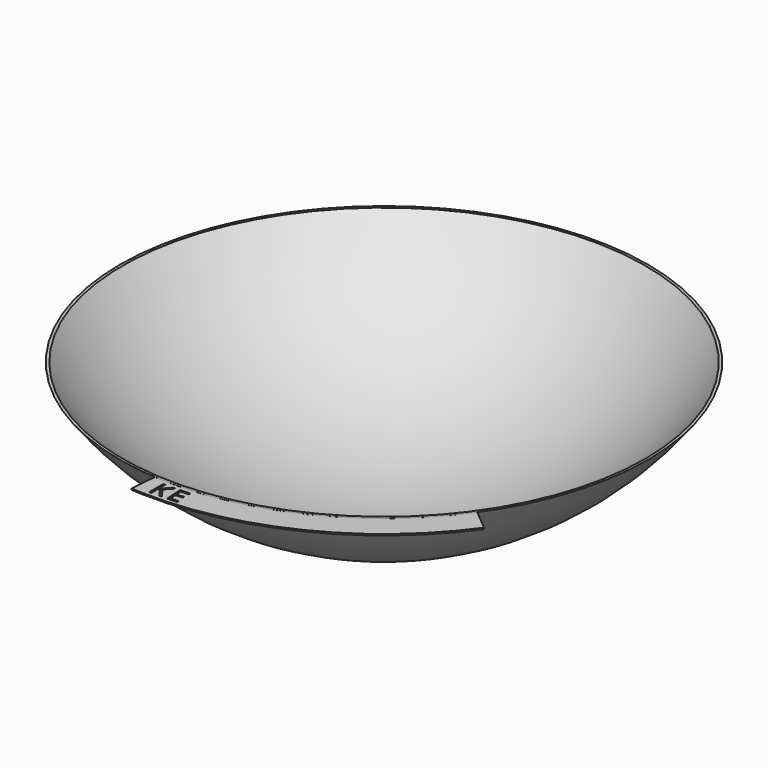
from build123d import *

# Parameters (mm, degrees)
F3_DEPTH = 3


with BuildPart() as f1:
    # F0 (on Front) → F1 (revolve)
    with BuildSketch(Plane.XZ):
        with BuildLine():
            Line((0, -595.0000286102), (0, -600))
            ThreePointArc((0, -600), (336.5356528467, -519.3734364832), (600, -295.0000286102))
            Line((600, -295.0000286102), (593.7999683855, -295.0000286102))
            ThreePointArc((593.7999683855, -295.0000286102), (332.6403472426, -515.7421167738), (0, -595.0000286102))
        make_face()
    revolve(axis=Axis((0, 0, -597.5000143051), (0, 0, -1)))


with BuildPart() as f3:
    # F2 (on face) → F3 (new body)
    with BuildSketch(Plane.XY.offset(-295.0000286102)):
        with BuildLine():
            Line((-41.9419306835, -598.5322668416), (-46.6850665396, -658.3468228681))
            ThreePointArc((-46.6850665396, -658.3468228681), (-32.8266381039, -659.1831660845), (-18.953683693, -659.7278169767))
            ThreePointArc((-18.953683693, -659.7278169767), (292.5235262963, -591.6333502952), (535.7352404056, -385.4708637575))
            Line((535.7352404056, -385.4708637575), (489.4563164324, -347.0338806289))
            ThreePointArc((489.4563164324, -347.0338806289), (256.6712701686, -542.3281839164), (-41.9419306835, -598.5322668416))
        make_face()
        Polygon((-1.2989012536, -627.3444477134), (15.343591639, -649.9065015959), (9.8863970652, -649.906557788), (-4.6517685138, -630.5576784029), (-8.8341242246, -634.2686137786), (-8.8339632006, -649.9067505492), (-13.4703957105, -649.90679829), (-13.4708064969, -610.0125230779), (-8.834373987, -610.0124753372), (-8.8341702571, -629.7980799838), (9.2573174639, -610.0122890492), (14.7407065716, -610.0122325875), align=None, mode=Mode.SUBTRACT)
        Polygon((48.6931689875, -644.1270779315), (48.9286083064, -648.2678578233), (26.7253106553, -649.530308234), (24.4606322388, -609.700364391), (46.66392989, -608.4379139803), (46.8978822236, -612.552541578), (29.3235406199, -613.5517956133), (30.0531546775, -626.3838545621), (46.5639696564, -625.4450712571), (46.7964350049, -629.5335465607), (30.285620026, -630.4723298657), (31.1188273838, -645.1263319668), align=None, mode=Mode.SUBTRACT)
    extrude(amount=-F3_DEPTH)


solid = Compound([f1.part, f3.part])
